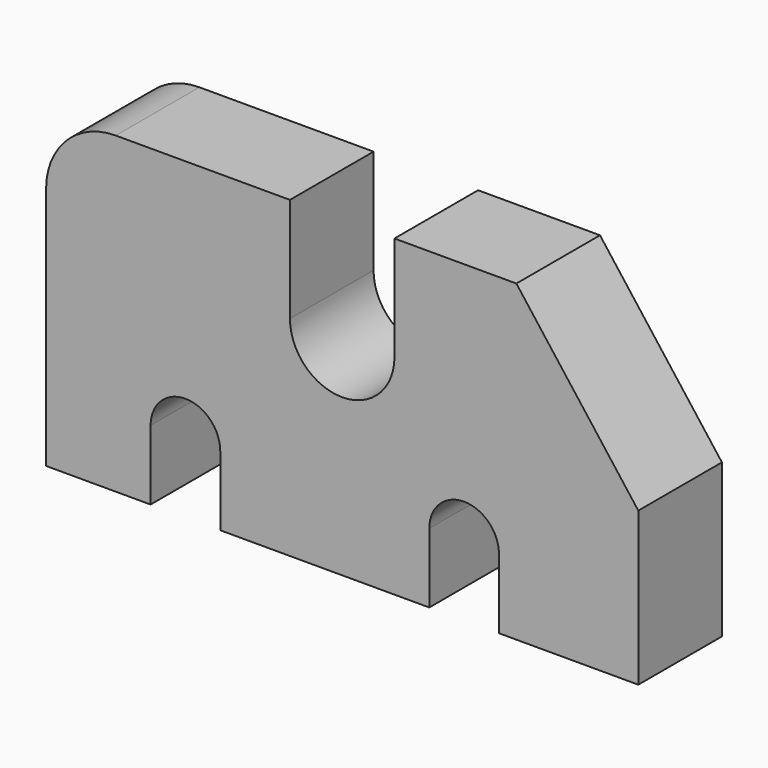
from build123d import *

# Parameters (mm, degrees)
F1_DEPTH = 30


with BuildPart() as f1:
    # F0 (on Front) → F1 (new body)
    with BuildSketch(Plane.XZ):
        with BuildLine():
            Line((-100, 30.548105), (-100, -39.451895))
            Line((-100, -39.451895), (-70, -39.451895))
            Line((-70, -39.451895), (-70, -19.451895))
            ThreePointArc((-70, -19.451895), (-67.071068, -12.380827), (-60, -9.451895))
            ThreePointArc((-60, -9.451895), (-52.928932, -12.380827), (-50, -19.451895))
            Line((-50, -19.451895), (-50, -39.451895))
            Line((-50, -39.451895), (10, -39.451895))
            Line((10, -39.451895), (10, -19.451895))
            ThreePointArc((10, -19.451895), (12.928932, -12.380827), (20, -9.451895))
            ThreePointArc((20, -9.451895), (27.071068, -12.380827), (30, -19.451895))
            Line((30, -19.451895), (30, -39.451895))
            Line((30, -39.451895), (70, -39.451895))
            Line((70, -39.451895), (70, 4.548105))
            Line((70, 4.548105), (35, 50.548105))
            Line((35, 50.548105), (0, 50.548105))
            Line((0, 50.548105), (0, 20.548105))
            ThreePointArc((0, 20.548105), (-15, 5.548105), (-30, 20.548105))
            Line((-30, 20.548105), (-30, 50.548105))
            Line((-30, 50.548105), (-80, 50.548105))
            ThreePointArc((-80, 50.548105), (-94.142136, 44.69024), (-100, 30.548105))
        make_face()
    extrude(amount=F1_DEPTH)


solid = f1.part
